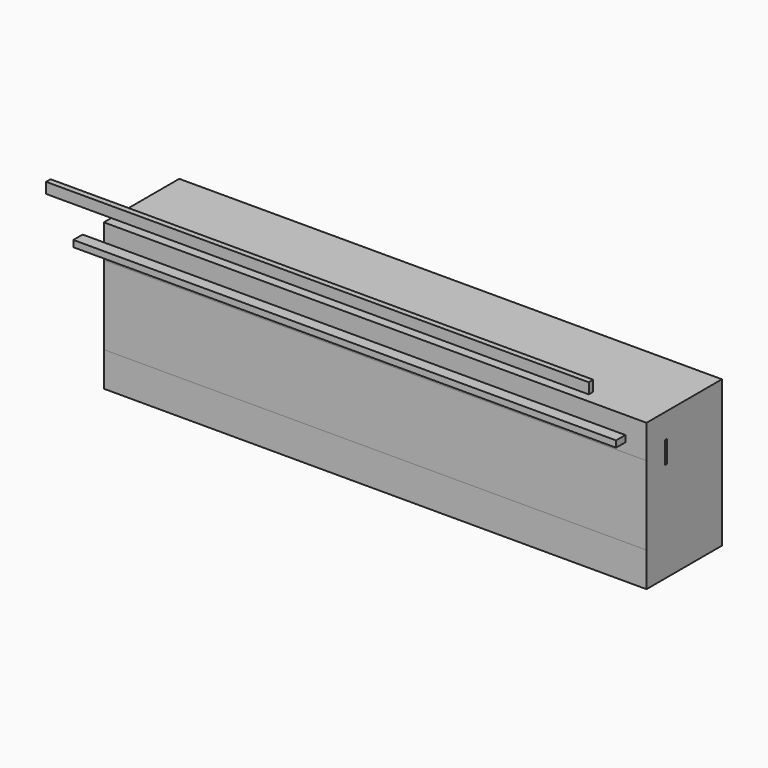
from build123d import *

# Parameters (mm, degrees)
F0_W     = 10.347426
F0_H     = 19.682198
F0_W_2   = 4.434586
F0_H_2   = 40.869117
F0_W_3   = 18.477559
F0_H_3   = 144.966424
F0_W_4   = 21.433934
F0_H_4   = 11.899188
F1_DEPTH = 1000


with BuildPart() as f1:
    # F0 (on Right) → F1 (new body)
    with BuildSketch(Plane.YZ):
        with Locations((-146.34192, 155.10118)):
            Rectangle(F0_W, F0_H)
        Polygon((-18.477559, 45.150518), (-18.477559, -16.364455), (0, -16.364455), (0, -161.330879), (-18.477559, -161.330879), (-18.477559, -224.823996), (155.211121, -224.823996), (155.211121, 45.150518), align=None)
        with Locations((26.607603, -20.434558)):
            Rectangle(F0_W_2, F0_H_2, mode=Mode.SUBTRACT)
        with Locations((-9.238779, -88.847667)):
            Rectangle(F0_W_3, F0_H_3)
        with Locations((-77.975191, 39.200924)):
            Rectangle(F0_W_4, F0_H_4)
    extrude(amount=F1_DEPTH)


solid = f1.part
